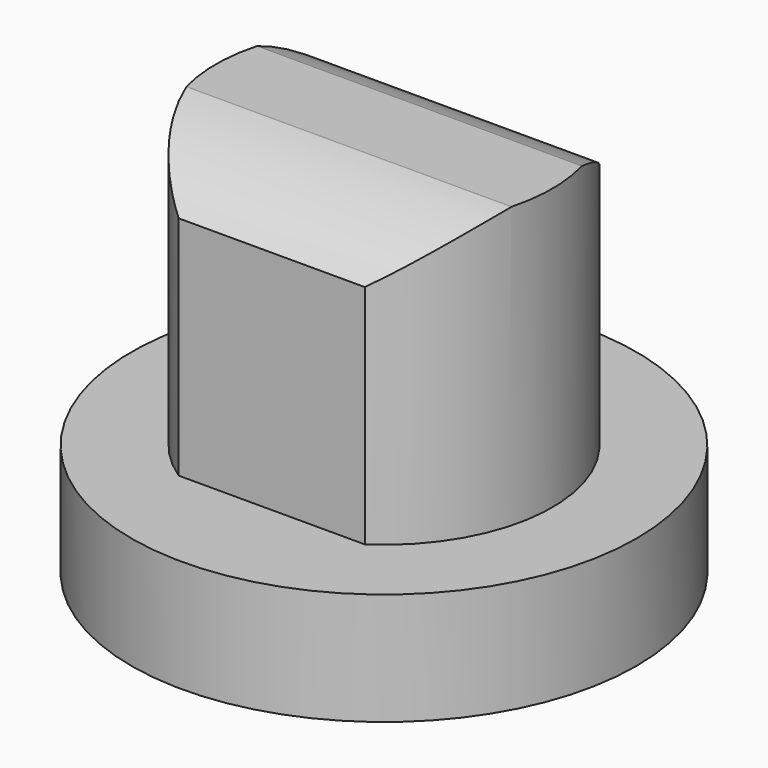
from build123d import *

# Parameters (mm, degrees)
SKETCH_R          = 4.5
PAD_DEPTH         = 2
PAD001_DEPTH      = 7
POCKET_DEPTH      = 4.501
POCKET_DEPTH_BACK = -4.501


with BuildPart() as part:
    # Sketch → Pad (new body)
    with BuildSketch(Plane.XY):
        Circle(SKETCH_R)
    extrude(amount=PAD_DEPTH)

    # Sketch001 → Pad001 (join)
    with BuildSketch(Plane.XY):
        with BuildLine():
            ThreePointArc((-1.658312, 2.5), (-3, 0), (-1.658312, -2.5))
            Line((-1.658312, -2.5), (1.658312, -2.5))
            ThreePointArc((1.658312, -2.5), (3, 0), (1.658312, 2.5))
            Line((-1.658312, 2.5), (1.658312, 2.5))
        make_face()
    extrude(amount=PAD001_DEPTH)

    # Sketch002 → Pocket (cut, two sides)
    with BuildSketch(Plane.YZ) as pocket_sk:
        with BuildLine():
            ThreePointArc((2.746163, 4.734229), (1.500773, 6.674426), (-0.781849, 6.998461))
            ThreePointArc((-0.781849, 6.998461), (-1.981292, 6.473003), (-2.90242, 5.542254))
            Line((-4.129342, 5.542254), (-2.90242, 5.542254))
            Line((-4.129342, 6.557363), (-4.129342, 5.542254))
            Line((-4.129342, 8.966747), (-4.129342, 6.557363))
            Line((2.746163, 8.966747), (-4.129342, 8.966747))
            Line((2.746163, 4.734229), (2.746163, 8.966747))
        make_face()
    extrude(amount=-POCKET_DEPTH, mode=Mode.SUBTRACT)
    extrude(pocket_sk.sketch, amount=-POCKET_DEPTH_BACK, mode=Mode.SUBTRACT)


solid = part.part
